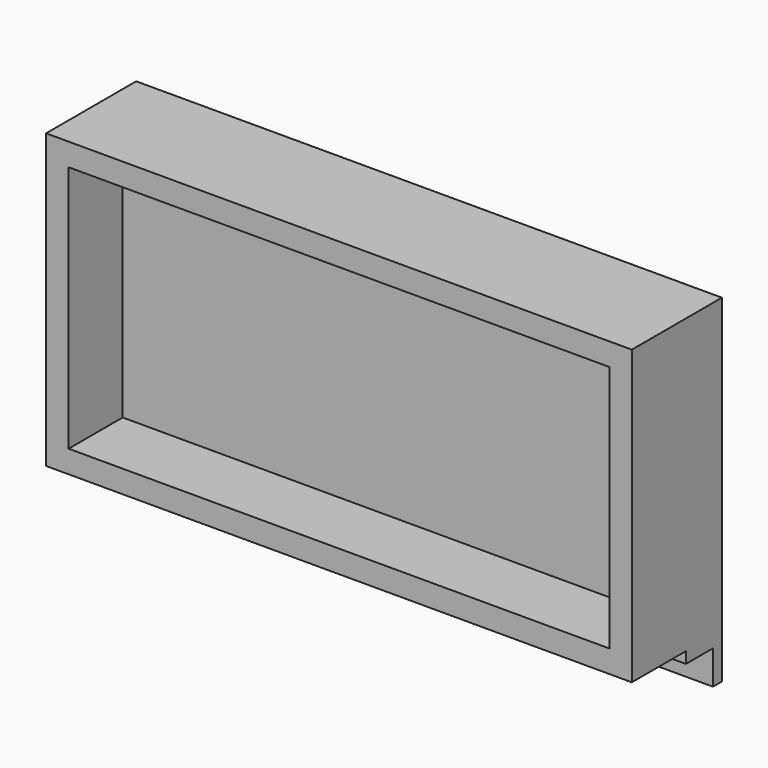
from build123d import *

# Parameters (mm, degrees)
F0_W     = 260
F0_H     = 130
F1_DEPTH = 50
F2_R     = 50
F3_DEPTH = 10
F4_W     = 240
F4_H     = 110
F5_DEPTH = 30
F7_DEPTH = 260
F8_R     = 4
F8_R_2   = 4.17612
F9_DEPTH = 25


with BuildPart() as f1:
    # F0 (on Front) → F1 (new body)
    with BuildSketch(Plane.XZ):
        Rectangle(F0_W, F0_H)
    extrude(amount=F1_DEPTH)

    # F2 (on face) → F3 (cut)
    with BuildSketch(Plane(origin=(0, 0, 0), x_dir=(-1, 0, 0), z_dir=(0, 1, 0))):
        with Locations((60, 0)):
            Circle(F2_R)
        with Locations((-60, 0)):
            Circle(F2_R)
    extrude(amount=-F3_DEPTH, mode=Mode.SUBTRACT)

    # F4 (on face) → F5 (cut)
    with BuildSketch(Plane.XZ.offset(50)):
        Rectangle(F4_W, F4_H)
    extrude(amount=-F5_DEPTH, mode=Mode.SUBTRACT)

    # F6 (on face) → F7 (join)
    with BuildSketch(Plane(origin=(-130, 0, 0), x_dir=(0, -1, 0), z_dir=(-1, 0, 0))):
        Polygon((20, -65), (0, -65), (0, -85), (5, -85), (5, -70), (20, -70), align=None)
    extrude(amount=-F7_DEPTH)

    # F8 (on face) → F9 (cut)
    with BuildSketch(Plane(origin=(0, 0, 0), x_dir=(-1, 0, 0), z_dir=(0, 1, 0))):
        with Locations((-72.5, -76.529376)):
            Circle(F8_R)
        with Locations((45.50003, -76.529376)):
            Circle(F8_R_2)
    extrude(amount=-F9_DEPTH, mode=Mode.SUBTRACT)


solid = f1.part
